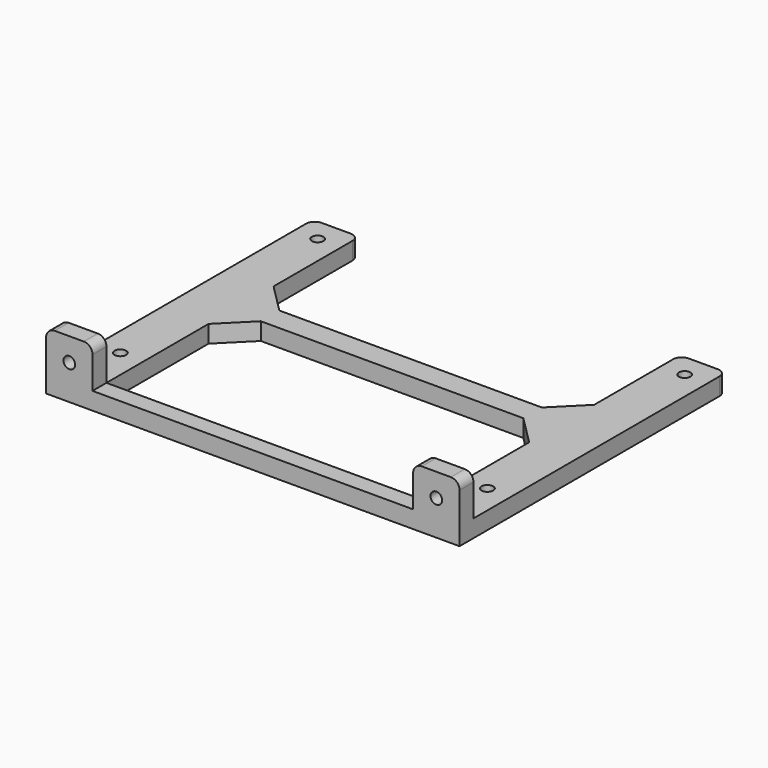
from build123d import *

# Parameters (mm, degrees)
SKETCH_R        = 2
SKETCH_W        = 110.5
SKETCH_H        = 54
PAD_DEPTH       = 6
SKETCH001_W     = 16
SKETCH001_H     = 6
PAD001_DEPTH    = 14
SKETCH002_R     = 2
HOLE_DEPTH      = 24
SKETCH003_R     = 3
POCKET_DEPTH    = 2
CHAMFER_SIZE    = 1
CHAMFER001_SIZE = 1
FILLET_R        = 3
CHAMFER002_SIZE = 10


with BuildPart() as part:
    # Sketch → Pad (new body)
    with BuildSketch(Plane.XY):
        Polygon((143, -7), (0.5, -7), (0.5, 108), (16.5, 108), (16.5, 61), (127, 61), (127, 108), (143, 108), align=None)
        with Locations((8.5, 15)):
            Circle(SKETCH_R, mode=Mode.SUBTRACT)
        with Locations((8.5, 100)):
            Circle(SKETCH_R, mode=Mode.SUBTRACT)
        with Locations((135, 15)):
            Circle(SKETCH_R, mode=Mode.SUBTRACT)
        with Locations((135, 100)):
            Circle(SKETCH_R, mode=Mode.SUBTRACT)
        with Locations((71.75, 26)):
            Rectangle(SKETCH_W, SKETCH_H, mode=Mode.SUBTRACT)
    extrude(amount=PAD_DEPTH)

    # Sketch001 (on Face18 of Pad) → Pad001 (join)
    with BuildSketch(Plane.XY.offset(6)):
        with Locations((135, -4)):
            Rectangle(SKETCH001_W, SKETCH001_H)
        with Locations((8.5, -4)):
            Rectangle(SKETCH001_W, SKETCH001_H)
    extrude(amount=PAD001_DEPTH)

    # Sketch002 (on DatumPlane) → Hole (cut)
    with BuildSketch(Plane(origin=(0, -1, 0), x_dir=(-1, 0, 0), z_dir=(0, 1, 0))):
        with Locations((-135, 12)):
            Circle(SKETCH002_R)
        with Locations((-8.5, 12)):
            Circle(SKETCH002_R)
    extrude(amount=-HOLE_DEPTH, mode=Mode.SUBTRACT)

    # Sketch003 (on Face20 of Hole) → Pocket (cut)
    with BuildSketch(Plane(origin=(0, -1, 0), x_dir=(-1, 0, 0), z_dir=(0, 1, 0))):
        with Locations((-135, 12)):
            Circle(SKETCH003_R)
        with Locations((-8.5, 12)):
            Circle(SKETCH003_R)
    extrude(amount=-POCKET_DEPTH, mode=Mode.SUBTRACT)

    # Chamfer
    chamfer_edges = [part.edges().sort_by_distance(p)[0] for p in [
        (6.5, 15, 0),
        (6.5, 100, 0),
        (133, 15, 0),
        (133, 100, 0),
    ]]
    chamfer(chamfer_edges, length=CHAMFER_SIZE)

    # Chamfer001
    chamfer001_edges = [part.edges().sort_by_distance(p)[0] for p in [
        (11.5, -1, 12),
        (138, -1, 12),
    ]]
    chamfer(chamfer001_edges, length=CHAMFER001_SIZE)

    # Fillet
    fillet_edges = [part.edges().sort_by_distance(p)[0] for p in [
        (0.5, 108, 3),
        (16.5, 108, 3),
        (127, 108, 3),
        (143, 108, 3),
        (0.5, -4, 20),
        (16.5, -4, 20),
        (127, -4, 20),
        (143, -4, 20),
    ]]
    fillet(fillet_edges, radius=FILLET_R)

    # Chamfer002
    chamfer002_edges = [part.edges().sort_by_distance(p)[0] for p in [
        (16.5, 61, 3),
        (16.5, 53, 3),
        (127, 61, 3),
        (127, 53, 3),
    ]]
    chamfer(chamfer002_edges, length=CHAMFER002_SIZE)


solid = part.part
